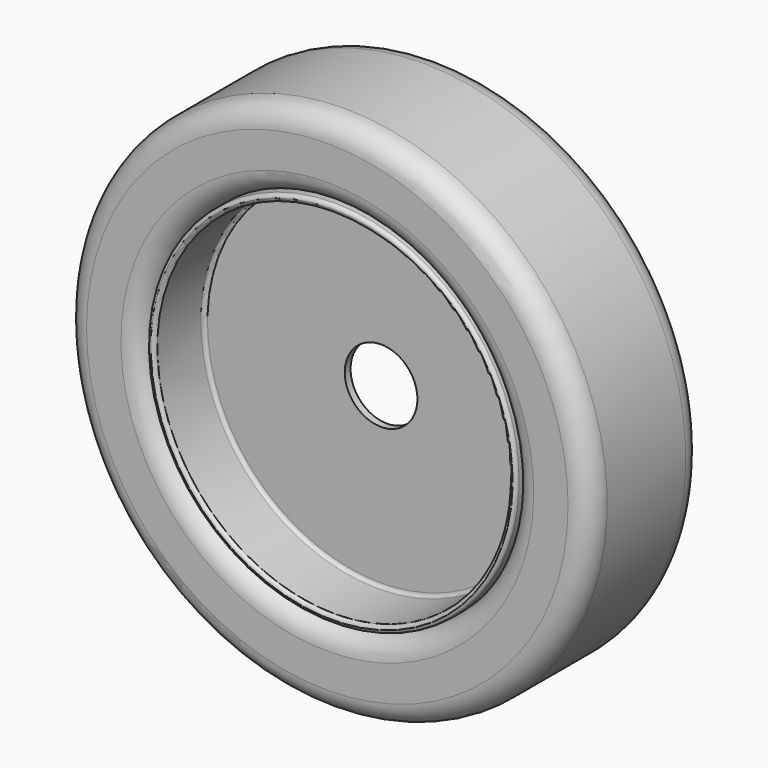
from build123d import *

# Parameters (mm, degrees)
F5_R     = 50
F6_DEPTH = 25


with BuildPart() as f3:
    # F0 (on Right) → F3 (revolve)
    with BuildSketch(Plane.YZ):
        with BuildLine():
            Line((67.5, 361.25), (-67.5, 361.25))
            ThreePointArc((-67.5, 361.25), (-88.713203, 352.463203), (-97.5, 331.25))
            Line((-97.5, 331.25), (-97.5, 284))
            ThreePointArc((-97.5, 284), (-88.713203, 262.786797), (-67.5, 254))
            Line((-67.5, 254), (67.5, 254))
            ThreePointArc((67.5, 254), (88.713203, 262.786797), (97.5, 284))
            Line((97.5, 284), (97.5, 331.25))
            ThreePointArc((97.5, 331.25), (88.713203, 352.463203), (67.5, 361.25))
        make_face()
    revolve(axis=Axis((0, 0, 0), (0, 1, 0)))


with BuildPart() as f4:
    # F2 (on Right) → F4 (revolve)
    with BuildSketch(Plane.YZ):
        with BuildLine():
            Line((85, 254), (-85, 254))
            ThreePointArc((-85, 254), (-88.535534, 252.535534), (-90, 249))
            ThreePointArc((-90, 249), (-88.535534, 245.464466), (-85, 244))
            Line((-85, 244), (-10, 244))
            ThreePointArc((-10, 244), (-6.464466, 242.535534), (-5, 239))
            Line((-5, 239), (-5, 0))
            Line((-5, 0), (5, 0))
            Line((5, 0), (5, 239))
            ThreePointArc((5, 239), (6.464466, 242.535534), (10, 244))
            Line((10, 244), (85, 244))
            ThreePointArc((85, 244), (88.535534, 245.464466), (90, 249))
            ThreePointArc((90, 249), (88.535534, 252.535534), (85, 254))
        make_face()
    revolve(axis=Axis((0, 0, 0), (0, 1, 0)))

    # F5 (on face) → F6 (cut)
    with BuildSketch(Plane.XZ.offset(5)):
        Circle(F5_R)
    extrude(amount=-F6_DEPTH, mode=Mode.SUBTRACT)


solid = Compound([f3.part, f4.part])
